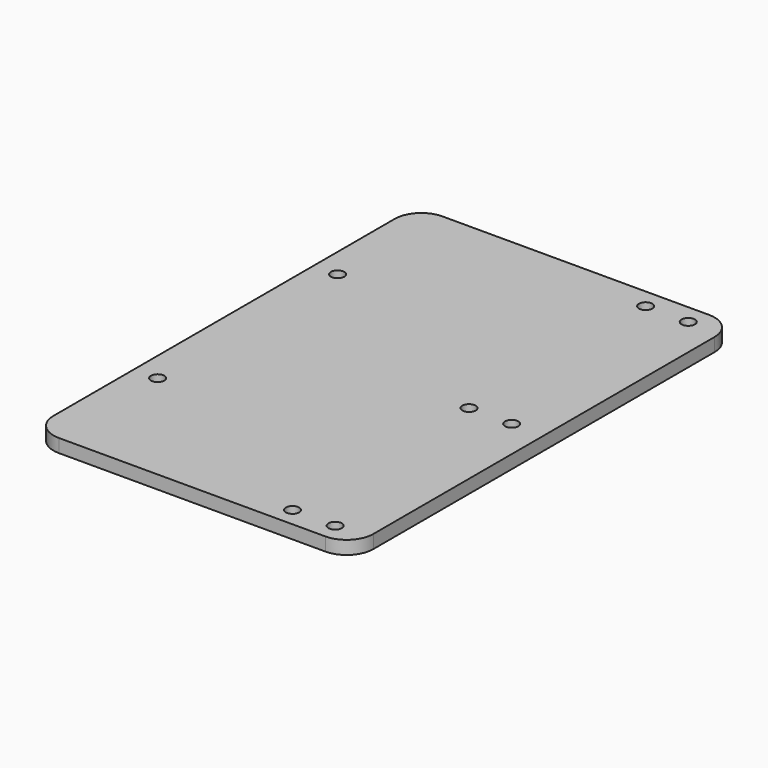
from build123d import *

# Parameters (mm, degrees)
F0_R     = 2.5
F1_DEPTH = 5


with BuildPart() as f1:
    # F0 (on Top) → F1 (new body)
    with BuildSketch(Plane.XY):
        with BuildLine():
            ThreePointArc((-100, -79.9), (-97.071068, -86.971068), (-90, -89.9))
            Line((-90, -89.9), (10, -89.9))
            ThreePointArc((10, -89.9), (17.071068, -86.971068), (20, -79.9))
            Line((20, -79.9), (20, 80.1))
            ThreePointArc((20, 80.1), (17.071068, 87.171068), (10, 90.1))
            Line((10, 90.1), (-90, 90.1))
            ThreePointArc((-90, 90.1), (-97.071068, 87.171068), (-100, 80.1))
            Line((-100, 80.1), (-100, -79.9))
        make_face()
        with Locations((-91.1, -42.2)):
            Circle(F0_R, mode=Mode.SUBTRACT)
        with Locations((-8, -82.8)):
            Circle(F0_R, mode=Mode.SUBTRACT)
        with Locations((8, -82.8)):
            Circle(F0_R, mode=Mode.SUBTRACT)
        with Locations((-8, 0)):
            Circle(F0_R, mode=Mode.SUBTRACT)
        with Locations((8, 0)):
            Circle(F0_R, mode=Mode.SUBTRACT)
        with Locations((-91.1, 42.2)):
            Circle(F0_R, mode=Mode.SUBTRACT)
        with Locations((-8, 82.8)):
            Circle(F0_R, mode=Mode.SUBTRACT)
        with Locations((8, 82.8)):
            Circle(F0_R, mode=Mode.SUBTRACT)
    extrude(amount=F1_DEPTH)


solid = f1.part
